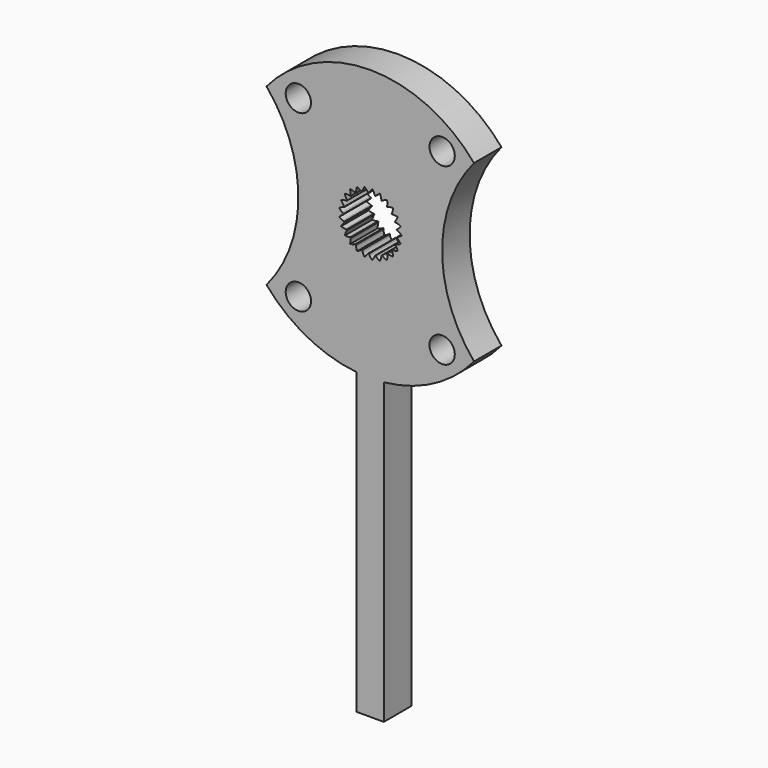
from build123d import *

# Parameters (mm, degrees)
PAD_DEPTH       = 3.8
POCKET047_DEPTH = 3.801
SKETCH077_R     = 1.4
POCKET049_DEPTH = 3.801
SKETCH078_W     = 3
SKETCH078_H     = 34
PAD019_DEPTH    = 3.8


with BuildPart() as part:
    # CopySketch078 → Pad (new body)
    with BuildSketch(Plane(origin=(0, 0, 0), x_dir=(1, 0, 0), z_dir=(0, 1, 0))):
        with BuildLine():
            ThreePointArc((11.475, 9.660454), (0, 15), (-11.475, 9.660454))
            ThreePointArc((-11.475, -9.660454), (-7.95, 0), (-11.475, 9.660454))
            ThreePointArc((-11.475, -9.660454), (0, -15), (11.475, -9.660454))
            ThreePointArc((11.475, 9.660454), (7.95, 0), (11.475, -9.660454))
        make_face()
    extrude(amount=PAD_DEPTH)

    # InvoluteGear002 (on Face6 of Pad) → Pocket047 (cut, through all)
    with BuildSketch(Plane(origin=(0, 3.8, 0), x_dir=(1, 0, 0), z_dir=(0, 1, 0))):
        with BuildLine():
            add(Edge.make_bspline(
                [(2.935686, -0.341652), (2.980578, -0.323699), (3.028803, -0.301734), (3.079774, -0.27497)],
                knots=[0, 0, 0, 0, 1, 1, 1, 1], degree=3))
            add(Edge.make_bspline(
                [(3.079774, -0.27497), (3.19844, -0.212627), (3.33132, -0.124801), (3.469601, -0.002687)],
                knots=[0, 0, 0, 0, 1, 1, 1, 1], degree=3))
            ThreePointArc((3.469601, -0.002687), (3.469602, 0), (3.469601, 0.002687))
            add(Edge.make_bspline(
                [(3.469601, 0.002687), (3.33132, 0.124801), (3.19844, 0.212627), (3.079774, 0.27497)],
                knots=[0, 0, 0, 0, 1, 1, 1, 1], degree=3))
            add(Edge.make_bspline(
                [(3.079774, 0.27497), (3.028803, 0.301734), (2.980578, 0.323699), (2.93569, 0.341649)],
                knots=[0, 0, 0, 0, 1, 1, 1, 1], degree=3))
            ThreePointArc((2.93569, 0.341649), (2.92763, 0.369844), (2.928422, 0.399157))
            add(Edge.make_bspline(
                [(2.928422, 0.399157), (2.967439, 0.42771), (3.008686, 0.460978), (3.051399, 0.499577)],
                knots=[0, 0, 0, 0, 1, 1, 1, 1], degree=3))
            add(Edge.make_bspline(
                [(3.051399, 0.499577), (3.150833, 0.589473), (3.257697, 0.707585), (3.361265, 0.860253)],
                knots=[0, 0, 0, 0, 1, 1, 1, 1], degree=3))
            ThreePointArc((3.361265, 0.860253), (3.360598, 0.862855), (3.359929, 0.865457))
            add(Edge.make_bspline(
                [(3.359929, 0.865457), (3.195624, 0.949346), (3.045077, 1.001366), (2.914635, 1.03224)],
                knots=[0, 0, 0, 0, 1, 1, 1, 1], degree=3))
            add(Edge.make_bspline(
                [(2.914635, 1.03224), (2.858609, 1.045487), (2.806437, 1.054769), (2.758495, 1.060992)],
                knots=[0, 0, 0, 0, 1, 1, 1, 1], degree=3))
            ThreePointArc((2.758495, 1.060992), (2.743677, 1.086297), (2.737154, 1.114886))
            add(Edge.make_bspline(
                [(2.737154, 1.114886), (2.767844, 1.152245), (2.799522, 1.194725), (2.831294, 1.242734)],
                knots=[0, 0, 0, 0, 1, 1, 1, 1], degree=3))
            add(Edge.make_bspline(
                [(2.831294, 1.242734), (2.905248, 1.354534), (2.979382, 1.495511), (3.041729, 1.669139)],
                knots=[0, 0, 0, 0, 1, 1, 1, 1], degree=3))
            ThreePointArc((3.041729, 1.669139), (3.040436, 1.671494), (3.03914, 1.673847))
            add(Edge.make_bspline(
                [(3.03914, 1.673847), (2.859135, 1.71424), (2.700381, 1.727187), (2.566358, 1.724651)],
                knots=[0, 0, 0, 0, 1, 1, 1, 1], degree=3))
            add(Edge.make_bspline(
                [(2.566358, 1.724651), (2.508799, 1.723549), (2.455957, 1.719564), (2.407974, 1.713669)],
                knots=[0, 0, 0, 0, 1, 1, 1, 1], degree=3))
            ThreePointArc((2.407974, 1.713669), (2.387328, 1.734493), (2.3739, 1.760562))
            add(Edge.make_bspline(
                [(2.3739, 1.760562), (2.394335, 1.80438), (2.414453, 1.853403), (2.433289, 1.907806)],
                knots=[0, 0, 0, 0, 1, 1, 1, 1], degree=3))
            add(Edge.make_bspline(
                [(2.433289, 1.907806), (2.477116, 2.034485), (2.51386, 2.189469), (2.53107, 2.373147)],
                knots=[0, 0, 0, 0, 1, 1, 1, 1], degree=3))
            ThreePointArc((2.53107, 2.373147), (2.529231, 2.375106), (2.527391, 2.377064))
            add(Edge.make_bspline(
                [(2.527391, 2.377064), (2.342995, 2.371422), (2.186009, 2.344481), (2.056828, 2.308695)],
                knots=[0, 0, 0, 0, 1, 1, 1, 1], degree=3))
            add(Edge.make_bspline(
                [(2.056828, 2.308695), (2.001351, 2.293313), (1.951161, 2.276313), (1.906151, 2.25867)],
                knots=[0, 0, 0, 0, 1, 1, 1, 1], degree=3))
            ThreePointArc((1.906151, 2.25867), (1.880975, 2.273705), (1.861486, 2.295616))
            add(Edge.make_bspline(
                [(1.861486, 2.295616), (1.870382, 2.343139), (1.877676, 2.395626), (1.88239, 2.453003)],
                knots=[0, 0, 0, 0, 1, 1, 1, 1], degree=3))
            add(Edge.make_bspline(
                [(1.88239, 2.453003), (1.893337, 2.586601), (1.890384, 2.745855), (1.861374, 2.928042)],
                knots=[0, 0, 0, 0, 1, 1, 1, 1], degree=3))
            ThreePointArc((1.861374, 2.928042), (1.859106, 2.929482), (1.856837, 2.930921))
            add(Edge.make_bspline(
                [(1.856837, 2.930921), (1.679637, 2.879599), (1.534283, 2.814463), (1.41806, 2.747675)],
                knots=[0, 0, 0, 0, 1, 1, 1, 1], degree=3))
            add(Edge.make_bspline(
                [(1.41806, 2.747675), (1.368151, 2.71898), (1.323765, 2.690032), (1.284557, 2.66175)],
                knots=[0, 0, 0, 0, 1, 1, 1, 1], degree=3))
            ThreePointArc((1.284557, 2.66175), (1.256433, 2.670052), (1.232107, 2.686427))
            add(Edge.make_bspline(
                [(1.232107, 2.686427), (1.228906, 2.73467), (1.222918, 2.787322), (1.213215, 2.844069)],
                knots=[0, 0, 0, 0, 1, 1, 1, 1], degree=3))
            add(Edge.make_bspline(
                [(1.213215, 2.844069), (1.190592, 2.976192), (1.148128, 3.129708), (1.074721, 3.298957)],
                knots=[0, 0, 0, 0, 1, 1, 1, 1], degree=3))
            ThreePointArc((1.074721, 3.298957), (1.072166, 3.299788), (1.069611, 3.300617))
            add(Edge.make_bspline(
                [(1.069611, 3.300617), (0.910741, 3.20684), (0.786152, 3.107603), (0.69019, 3.014009)],
                knots=[0, 0, 0, 0, 1, 1, 1, 1], degree=3))
            add(Edge.make_bspline(
                [(0.69019, 3.014009), (0.648985, 2.973804), (0.613193, 2.934727), (0.58225, 2.897583)],
                knots=[0, 0, 0, 0, 1, 1, 1, 1], degree=3))
            ThreePointArc((0.58225, 2.897583), (0.552945, 2.89863), (0.525311, 2.908441))
            add(Edge.make_bspline(
                [(0.525311, 2.908441), (0.510213, 2.954372), (0.491319, 3.00388), (0.467808, 3.056431)],
                knots=[0, 0, 0, 0, 1, 1, 1, 1], degree=3))
            add(Edge.make_bspline(
                [(0.467808, 3.056431), (0.413039, 3.178778), (0.33373, 3.31691), (0.220539, 3.462586)],
                knots=[0, 0, 0, 0, 1, 1, 1, 1], degree=3))
            ThreePointArc((0.220539, 3.462586), (0.217858, 3.462756), (0.215177, 3.462923))
            add(Edge.make_bspline(
                [(0.215177, 3.462923), (0.08462, 3.332583), (-0.011376, 3.20548), (-0.081047, 3.090962)],
                knots=[0, 0, 0, 0, 1, 1, 1, 1], degree=3))
            add(Edge.make_bspline(
                [(-0.081047, 3.090962), (-0.110959, 3.041772), (-0.135908, 2.995022), (-0.156642, 2.95135)],
                knots=[0, 0, 0, 0, 1, 1, 1, 1], degree=3))
            ThreePointArc((-0.156642, 2.95135), (-0.185287, 2.945076), (-0.214492, 2.947706))
            add(Edge.make_bspline(
                [(-0.214492, 2.947706), (-0.240539, 2.988439), (-0.271151, 3.031694), (-0.306992, 3.076747)],
                knots=[0, 0, 0, 0, 1, 1, 1, 1], degree=3))
            add(Edge.make_bspline(
                [(-0.306992, 3.076747), (-0.390467, 3.181629), (-0.501636, 3.295699), (-0.647499, 3.408648)],
                knots=[0, 0, 0, 0, 1, 1, 1, 1], degree=3))
            ThreePointArc((-0.647499, 3.408648), (-0.650139, 3.408146), (-0.652777, 3.407642))
            add(Edge.make_bspline(
                [(-0.652777, 3.407642), (-0.746818, 3.248928), (-0.808189, 3.101945), (-0.847192, 2.973698)],
                knots=[0, 0, 0, 0, 1, 1, 1, 1], degree=3))
            add(Edge.make_bspline(
                [(-0.847192, 2.973698), (-0.863931, 2.918615), (-0.87647, 2.867129), (-0.885691, 2.819672)],
                knots=[0, 0, 0, 0, 1, 1, 1, 1], degree=3))
            ThreePointArc((-0.885691, 2.819672), (-0.911876, 2.806472), (-0.940819, 2.801757))
            add(Edge.make_bspline(
                [(-0.940819, 2.801757), (-0.976177, 2.834732), (-1.016584, 2.869015), (-1.062503, 2.903739)],
                knots=[0, 0, 0, 0, 1, 1, 1, 1], degree=3))
            add(Edge.make_bspline(
                [(-1.062503, 2.903739), (-1.169439, 2.984567), (-1.305483, 3.067406), (-1.474853, 3.140533)],
                knots=[0, 0, 0, 0, 1, 1, 1, 1], degree=3))
            ThreePointArc((-1.474853, 3.140533), (-1.477285, 3.13939), (-1.479715, 3.138245))
            add(Edge.make_bspline(
                [(-1.479715, 3.138245), (-1.531331, 2.961131), (-1.55422, 2.803503), (-1.560104, 2.669586)],
                knots=[0, 0, 0, 0, 1, 1, 1, 1], degree=3))
            add(Edge.make_bspline(
                [(-1.560104, 2.669586), (-1.562619, 2.612071), (-1.56196, 2.559083), (-1.55909, 2.510825)],
                knots=[0, 0, 0, 0, 1, 1, 1, 1], degree=3))
            ThreePointArc((-1.55909, 2.510825), (-1.581169, 2.491527), (-1.60803, 2.479762))
            add(Edge.make_bspline(
                [(-1.60803, 2.479762), (-1.650478, 2.502909), (-1.698141, 2.526065), (-1.751254, 2.548279)],
                knots=[0, 0, 0, 0, 1, 1, 1, 1], degree=3))
            add(Edge.make_bspline(
                [(-1.751254, 2.548279), (-1.874931, 2.599974), (-2.027302, 2.646378), (-2.209537, 2.675086)],
                knots=[0, 0, 0, 0, 1, 1, 1, 1], degree=3))
            ThreePointArc((-2.209537, 2.675086), (-2.211608, 2.673374), (-2.213677, 2.671661))
            add(Edge.make_bspline(
                [(-2.213677, 2.671661), (-2.219625, 2.487275), (-2.202594, 2.328907), (-2.17499, 2.197734)],
                knots=[0, 0, 0, 0, 1, 1, 1, 1], degree=3))
            add(Edge.make_bspline(
                [(-2.17499, 2.197734), (-2.163122, 2.1414), (-2.149307, 2.090241), (-2.134525, 2.044213)],
                knots=[0, 0, 0, 0, 1, 1, 1, 1], degree=3))
            ThreePointArc((-2.134525, 2.044213), (-2.151111, 2.02003), (-2.174202, 2.001955))
            add(Edge.make_bspline(
                [(-2.174202, 2.001955), (-2.221073, 2.013818), (-2.272998, 2.024394), (-2.329966, 2.032701)],
                knots=[0, 0, 0, 0, 1, 1, 1, 1], degree=3))
            add(Edge.make_bspline(
                [(-2.329966, 2.032701), (-2.462613, 2.052015), (-2.621738, 2.059067), (-2.805387, 2.041554)],
                knots=[0, 0, 0, 0, 1, 1, 1, 1], degree=3))
            ThreePointArc((-2.805387, 2.041554), (-2.806967, 2.039381), (-2.808545, 2.037207))
            add(Edge.make_bspline(
                [(-2.808545, 2.037207), (-2.768451, 1.857134), (-2.712571, 1.707977), (-2.653213, 1.58779)],
                knots=[0, 0, 0, 0, 1, 1, 1, 1], degree=3))
            add(Edge.make_bspline(
                [(-2.653213, 1.58779), (-2.627708, 1.536178), (-2.601604, 1.490062), (-2.57584, 1.449155)],
                knots=[0, 0, 0, 0, 1, 1, 1, 1], degree=3))
            ThreePointArc((-2.57584, 1.449155), (-2.585891, 1.421608), (-2.603762, 1.398358))
            add(Edge.make_bspline(
                [(-2.603762, 1.398358), (-2.65211, 1.398192), (-2.705034, 1.395522), (-2.762278, 1.389401)],
                knots=[0, 0, 0, 0, 1, 1, 1, 1], degree=3))
            add(Edge.make_bspline(
                [(-2.762278, 1.389401), (-2.895561, 1.37512), (-3.051441, 1.342378), (-3.224965, 1.279743)],
                knots=[0, 0, 0, 0, 1, 1, 1, 1], degree=3))
            ThreePointArc((-3.224965, 1.279743), (-3.225955, 1.277246), (-3.226943, 1.274748))
            add(Edge.make_bspline(
                [(-3.226943, 1.274748), (-3.143326, 1.110303), (-3.052108, 0.979729), (-2.964725, 0.87808)],
                knots=[0, 0, 0, 0, 1, 1, 1, 1], degree=3))
            add(Edge.make_bspline(
                [(-2.964725, 0.87808), (-2.927185, 0.834431), (-2.890433, 0.796256), (-2.855305, 0.763042)],
                knots=[0, 0, 0, 0, 1, 1, 1, 1], degree=3))
            ThreePointArc((-2.855305, 0.763042), (-2.85819, 0.73386), (-2.869717, 0.706897))
            add(Edge.make_bspline(
                [(-2.869717, 0.706897), (-2.916505, 0.694712), (-2.967102, 0.678965), (-3.021026, 0.6588)],
                knots=[0, 0, 0, 0, 1, 1, 1, 1], degree=3))
            add(Edge.make_bspline(
                [(-3.021026, 0.6588), (-3.14657, 0.611821), (-3.28941, 0.541342), (-3.441906, 0.437522)],
                knots=[0, 0, 0, 0, 1, 1, 1, 1], degree=3))
            ThreePointArc((-3.441906, 0.437522), (-3.442243, 0.434856), (-3.442579, 0.432191))
            add(Edge.make_bspline(
                [(-3.442579, 0.432191), (-3.320693, 0.293708), (-3.199869, 0.189921), (-3.089952, 0.113196)],
                knots=[0, 0, 0, 0, 1, 1, 1, 1], degree=3))
            add(Edge.make_bspline(
                [(-3.089952, 0.113196), (-3.042737, 0.080255), (-2.997646, 0.052419), (-2.955362, 0.028984)],
                knots=[0, 0, 0, 0, 1, 1, 1, 1], degree=3))
            ThreePointArc((-2.955362, 0.028984), (-2.950899, 2e-06), (-2.955358, -0.028981))
            add(Edge.make_bspline(
                [(-2.955358, -0.028981), (-2.997646, -0.052419), (-3.042737, -0.080255), (-3.089952, -0.113196)],
                knots=[0, 0, 0, 0, 1, 1, 1, 1], degree=3))
            add(Edge.make_bspline(
                [(-3.089952, -0.113196), (-3.199869, -0.189921), (-3.320693, -0.293708), (-3.442579, -0.432191)],
                knots=[0, 0, 0, 0, 1, 1, 1, 1], degree=3))
            ThreePointArc((-3.442579, -0.432191), (-3.442243, -0.434856), (-3.441906, -0.437522))
            add(Edge.make_bspline(
                [(-3.441906, -0.437522), (-3.28941, -0.541342), (-3.14657, -0.611821), (-3.021026, -0.6588)],
                knots=[0, 0, 0, 0, 1, 1, 1, 1], degree=3))
            add(Edge.make_bspline(
                [(-3.021026, -0.6588), (-2.967102, -0.678965), (-2.916505, -0.694712), (-2.869721, -0.706895)],
                knots=[0, 0, 0, 0, 1, 1, 1, 1], degree=3))
            ThreePointArc((-2.869721, -0.706895), (-2.858191, -0.733857), (-2.855303, -0.763038))
            add(Edge.make_bspline(
                [(-2.855303, -0.763038), (-2.890433, -0.796256), (-2.927185, -0.834431), (-2.964725, -0.87808)],
                knots=[0, 0, 0, 0, 1, 1, 1, 1], degree=3))
            add(Edge.make_bspline(
                [(-2.964725, -0.87808), (-3.052108, -0.979729), (-3.143326, -1.110303), (-3.226943, -1.274748)],
                knots=[0, 0, 0, 0, 1, 1, 1, 1], degree=3))
            ThreePointArc((-3.226943, -1.274748), (-3.225955, -1.277246), (-3.224965, -1.279743))
            add(Edge.make_bspline(
                [(-3.224965, -1.279743), (-3.051441, -1.342378), (-2.895561, -1.37512), (-2.762278, -1.389401)],
                knots=[0, 0, 0, 0, 1, 1, 1, 1], degree=3))
            add(Edge.make_bspline(
                [(-2.762278, -1.389401), (-2.705034, -1.395522), (-2.65211, -1.398192), (-2.603766, -1.398357)],
                knots=[0, 0, 0, 0, 1, 1, 1, 1], degree=3))
            ThreePointArc((-2.603766, -1.398357), (-2.585893, -1.421605), (-2.575838, -1.449151))
            add(Edge.make_bspline(
                [(-2.575838, -1.449151), (-2.601604, -1.490062), (-2.627708, -1.536178), (-2.653213, -1.58779)],
                knots=[0, 0, 0, 0, 1, 1, 1, 1], degree=3))
            add(Edge.make_bspline(
                [(-2.653213, -1.58779), (-2.712571, -1.707977), (-2.768451, -1.857134), (-2.808545, -2.037207)],
                knots=[0, 0, 0, 0, 1, 1, 1, 1], degree=3))
            ThreePointArc((-2.808545, -2.037207), (-2.806967, -2.039381), (-2.805387, -2.041554))
            add(Edge.make_bspline(
                [(-2.805387, -2.041554), (-2.621738, -2.059067), (-2.462613, -2.052015), (-2.329966, -2.032701)],
                knots=[0, 0, 0, 0, 1, 1, 1, 1], degree=3))
            add(Edge.make_bspline(
                [(-2.329966, -2.032701), (-2.272998, -2.024394), (-2.221073, -2.013818), (-2.174207, -2.001956)],
                knots=[0, 0, 0, 0, 1, 1, 1, 1], degree=3))
            ThreePointArc((-2.174207, -2.001956), (-2.151114, -2.020028), (-2.134524, -2.044208))
            add(Edge.make_bspline(
                [(-2.134524, -2.044208), (-2.149307, -2.090241), (-2.163122, -2.1414), (-2.17499, -2.197734)],
                knots=[0, 0, 0, 0, 1, 1, 1, 1], degree=3))
            add(Edge.make_bspline(
                [(-2.17499, -2.197734), (-2.202594, -2.328907), (-2.219625, -2.487275), (-2.213677, -2.671661)],
                knots=[0, 0, 0, 0, 1, 1, 1, 1], degree=3))
            ThreePointArc((-2.213677, -2.671661), (-2.211608, -2.673374), (-2.209537, -2.675086))
            add(Edge.make_bspline(
                [(-2.209537, -2.675086), (-2.027302, -2.646378), (-1.874931, -2.599974), (-1.751254, -2.548279)],
                knots=[0, 0, 0, 0, 1, 1, 1, 1], degree=3))
            add(Edge.make_bspline(
                [(-1.751254, -2.548279), (-1.698141, -2.526065), (-1.650478, -2.502909), (-1.608034, -2.479764)],
                knots=[0, 0, 0, 0, 1, 1, 1, 1], degree=3))
            ThreePointArc((-1.608034, -2.479764), (-1.581172, -2.491525), (-1.55909, -2.51082))
            add(Edge.make_bspline(
                [(-1.55909, -2.51082), (-1.56196, -2.559083), (-1.562619, -2.612071), (-1.560104, -2.669586)],
                knots=[0, 0, 0, 0, 1, 1, 1, 1], degree=3))
            add(Edge.make_bspline(
                [(-1.560104, -2.669586), (-1.55422, -2.803503), (-1.531331, -2.961131), (-1.479715, -3.138245)],
                knots=[0, 0, 0, 0, 1, 1, 1, 1], degree=3))
            ThreePointArc((-1.479715, -3.138245), (-1.477285, -3.13939), (-1.474853, -3.140533))
            add(Edge.make_bspline(
                [(-1.474853, -3.140533), (-1.305483, -3.067406), (-1.169439, -2.984567), (-1.062503, -2.903739)],
                knots=[0, 0, 0, 0, 1, 1, 1, 1], degree=3))
            add(Edge.make_bspline(
                [(-1.062503, -2.903739), (-1.016584, -2.869015), (-0.976177, -2.834732), (-0.940822, -2.801759)],
                knots=[0, 0, 0, 0, 1, 1, 1, 1], degree=3))
            ThreePointArc((-0.940822, -2.801759), (-0.911879, -2.806471), (-0.885693, -2.819668))
            add(Edge.make_bspline(
                [(-0.885693, -2.819668), (-0.87647, -2.867129), (-0.863931, -2.918615), (-0.847192, -2.973698)],
                knots=[0, 0, 0, 0, 1, 1, 1, 1], degree=3))
            add(Edge.make_bspline(
                [(-0.847192, -2.973698), (-0.808189, -3.101945), (-0.746818, -3.248928), (-0.652777, -3.407642)],
                knots=[0, 0, 0, 0, 1, 1, 1, 1], degree=3))
            ThreePointArc((-0.652777, -3.407642), (-0.650139, -3.408146), (-0.647499, -3.408648))
            add(Edge.make_bspline(
                [(-0.647499, -3.408648), (-0.501636, -3.295699), (-0.390467, -3.181629), (-0.306992, -3.076747)],
                knots=[0, 0, 0, 0, 1, 1, 1, 1], degree=3))
            add(Edge.make_bspline(
                [(-0.306992, -3.076747), (-0.271151, -3.031694), (-0.240539, -2.988439), (-0.214496, -2.94771)],
                knots=[0, 0, 0, 0, 1, 1, 1, 1], degree=3))
            ThreePointArc((-0.214496, -2.94771), (-0.18529, -2.945075), (-0.156645, -2.951346))
            add(Edge.make_bspline(
                [(-0.156645, -2.951346), (-0.135908, -2.995022), (-0.110959, -3.041772), (-0.081047, -3.090962)],
                knots=[0, 0, 0, 0, 1, 1, 1, 1], degree=3))
            add(Edge.make_bspline(
                [(-0.081047, -3.090962), (-0.011376, -3.20548), (0.08462, -3.332583), (0.215177, -3.462923)],
                knots=[0, 0, 0, 0, 1, 1, 1, 1], degree=3))
            ThreePointArc((0.215177, -3.462923), (0.217858, -3.462756), (0.220539, -3.462586))
            add(Edge.make_bspline(
                [(0.220539, -3.462586), (0.33373, -3.31691), (0.413039, -3.178778), (0.467808, -3.056431)],
                knots=[0, 0, 0, 0, 1, 1, 1, 1], degree=3))
            add(Edge.make_bspline(
                [(0.467808, -3.056431), (0.491319, -3.00388), (0.510213, -2.954372), (0.525309, -2.908445)],
                knots=[0, 0, 0, 0, 1, 1, 1, 1], degree=3))
            ThreePointArc((0.525309, -2.908445), (0.552942, -2.89863), (0.582247, -2.89758))
            add(Edge.make_bspline(
                [(0.582247, -2.89758), (0.613193, -2.934727), (0.648985, -2.973804), (0.69019, -3.014009)],
                knots=[0, 0, 0, 0, 1, 1, 1, 1], degree=3))
            add(Edge.make_bspline(
                [(0.69019, -3.014009), (0.786152, -3.107603), (0.910741, -3.20684), (1.069611, -3.300617)],
                knots=[0, 0, 0, 0, 1, 1, 1, 1], degree=3))
            ThreePointArc((1.069611, -3.300617), (1.072166, -3.299788), (1.074721, -3.298957))
            add(Edge.make_bspline(
                [(1.074721, -3.298957), (1.148128, -3.129708), (1.190592, -2.976192), (1.213215, -2.844069)],
                knots=[0, 0, 0, 0, 1, 1, 1, 1], degree=3))
            add(Edge.make_bspline(
                [(1.213215, -2.844069), (1.222918, -2.787322), (1.228906, -2.73467), (1.232106, -2.686432)],
                knots=[0, 0, 0, 0, 1, 1, 1, 1], degree=3))
            ThreePointArc((1.232106, -2.686432), (1.25643, -2.670054), (1.284553, -2.661748))
            add(Edge.make_bspline(
                [(1.284553, -2.661748), (1.323765, -2.690032), (1.368151, -2.71898), (1.41806, -2.747675)],
                knots=[0, 0, 0, 0, 1, 1, 1, 1], degree=3))
            add(Edge.make_bspline(
                [(1.41806, -2.747675), (1.534283, -2.814463), (1.679637, -2.879599), (1.856837, -2.930921)],
                knots=[0, 0, 0, 0, 1, 1, 1, 1], degree=3))
            ThreePointArc((1.856837, -2.930921), (1.859106, -2.929482), (1.861374, -2.928042))
            add(Edge.make_bspline(
                [(1.861374, -2.928042), (1.890384, -2.745855), (1.893337, -2.586601), (1.88239, -2.453003)],
                knots=[0, 0, 0, 0, 1, 1, 1, 1], degree=3))
            add(Edge.make_bspline(
                [(1.88239, -2.453003), (1.877676, -2.395626), (1.870382, -2.343139), (1.861486, -2.29562)],
                knots=[0, 0, 0, 0, 1, 1, 1, 1], degree=3))
            ThreePointArc((1.861486, -2.29562), (1.880972, -2.273708), (1.906146, -2.258669))
            add(Edge.make_bspline(
                [(1.906146, -2.258669), (1.951161, -2.276313), (2.001351, -2.293313), (2.056828, -2.308695)],
                knots=[0, 0, 0, 0, 1, 1, 1, 1], degree=3))
            add(Edge.make_bspline(
                [(2.056828, -2.308695), (2.186009, -2.344481), (2.342995, -2.371422), (2.527391, -2.377064)],
                knots=[0, 0, 0, 0, 1, 1, 1, 1], degree=3))
            ThreePointArc((2.527391, -2.377064), (2.529231, -2.375106), (2.53107, -2.373147))
            add(Edge.make_bspline(
                [(2.53107, -2.373147), (2.51386, -2.189469), (2.477116, -2.034485), (2.433289, -1.907806)],
                knots=[0, 0, 0, 0, 1, 1, 1, 1], degree=3))
            add(Edge.make_bspline(
                [(2.433289, -1.907806), (2.414453, -1.853403), (2.394335, -1.80438), (2.373901, -1.760567)],
                knots=[0, 0, 0, 0, 1, 1, 1, 1], degree=3))
            ThreePointArc((2.373901, -1.760567), (2.387326, -1.734496), (2.407969, -1.71367))
            add(Edge.make_bspline(
                [(2.407969, -1.71367), (2.455957, -1.719564), (2.508799, -1.723549), (2.566358, -1.724651)],
                knots=[0, 0, 0, 0, 1, 1, 1, 1], degree=3))
            add(Edge.make_bspline(
                [(2.566358, -1.724651), (2.700381, -1.727187), (2.859135, -1.71424), (3.03914, -1.673847)],
                knots=[0, 0, 0, 0, 1, 1, 1, 1], degree=3))
            ThreePointArc((3.03914, -1.673847), (3.040436, -1.671494), (3.041729, -1.669139))
            add(Edge.make_bspline(
                [(3.041729, -1.669139), (2.979382, -1.495511), (2.905248, -1.354534), (2.831294, -1.242734)],
                knots=[0, 0, 0, 0, 1, 1, 1, 1], degree=3))
            add(Edge.make_bspline(
                [(2.831294, -1.242734), (2.799522, -1.194725), (2.767844, -1.152245), (2.737156, -1.11489)],
                knots=[0, 0, 0, 0, 1, 1, 1, 1], degree=3))
            ThreePointArc((2.737156, -1.11489), (2.743675, -1.0863), (2.758491, -1.060994))
            add(Edge.make_bspline(
                [(2.758491, -1.060994), (2.806437, -1.054769), (2.858609, -1.045487), (2.914635, -1.03224)],
                knots=[0, 0, 0, 0, 1, 1, 1, 1], degree=3))
            add(Edge.make_bspline(
                [(2.914635, -1.03224), (3.045077, -1.001366), (3.195624, -0.949346), (3.359929, -0.865457)],
                knots=[0, 0, 0, 0, 1, 1, 1, 1], degree=3))
            ThreePointArc((3.359929, -0.865457), (3.360598, -0.862855), (3.361265, -0.860253))
            add(Edge.make_bspline(
                [(3.361265, -0.860253), (3.257697, -0.707585), (3.150833, -0.589473), (3.051399, -0.499577)],
                knots=[0, 0, 0, 0, 1, 1, 1, 1], degree=3))
            add(Edge.make_bspline(
                [(3.051399, -0.499577), (3.008686, -0.460978), (2.967439, -0.42771), (2.928425, -0.399161)],
                knots=[0, 0, 0, 0, 1, 1, 1, 1], degree=3))
            ThreePointArc((2.928425, -0.399161), (2.92763, -0.369847), (2.935686, -0.341652))
        make_face()
    extrude(amount=-POCKET047_DEPTH, mode=Mode.SUBTRACT)

    # Sketch077 (on Face5 of Pocket047) → Pocket049 (cut, through all)
    with BuildSketch(Plane(origin=(0, 3.8, 0), x_dir=(1, 0, 0), z_dir=(0, 1, 0))):
        with Locations((-7.95, 9.660454)):
            Circle(SKETCH077_R)
        with Locations((7.95, 9.660454)):
            Circle(SKETCH077_R)
        with Locations((-7.95, -9.660454)):
            Circle(SKETCH077_R)
        with Locations((7.95, -9.660454)):
            Circle(SKETCH077_R)
    extrude(amount=-POCKET049_DEPTH, mode=Mode.SUBTRACT)

    # Sketch078 (on Face5 of Pocket049) → Pad019 (join)
    with BuildSketch(Plane(origin=(0, 3.8, 0), x_dir=(1, 0, 0), z_dir=(0, 1, 0))):
        with Locations((0, 31)):
            Rectangle(SKETCH078_W, SKETCH078_H)
    extrude(amount=-PAD019_DEPTH)


with BuildPart() as part_1:
    # Body placement: moved
    add(part.part.moved(Location((60, 55.5, 60))))


solid = part_1.part
